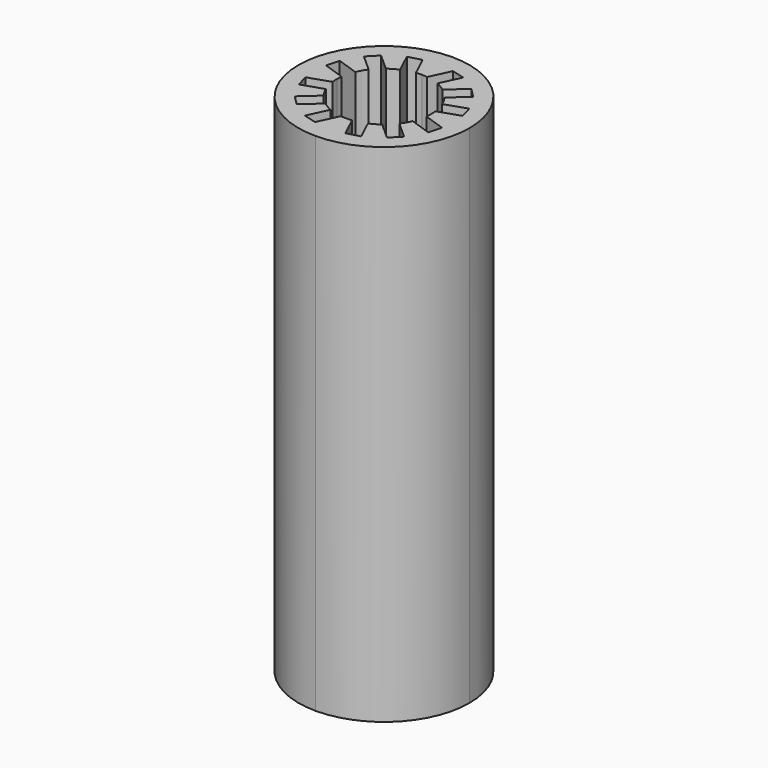
from build123d import *

# Parameters (mm, degrees)
PAD_DEPTH    = 45
PAD001_DEPTH = 45


with BuildPart() as mirrored:
    # Sketch → Pad (new body)
    with BuildSketch(Plane(origin=(0, 0, 0), x_dir=(0, 1, 0), z_dir=(0, 0, 1))):
        with BuildLine():
            ThreePointArc((0, 7.6), (-5.374012, 5.374012), (-7.6, 0))
            Line((-7.6, 0), (-4.2, 0))
            ThreePointArc((-4.170238, 0.499113), (-4.192553, 0.25), (-4.2, 0))
            Line((-5.982338, 1.345455), (-4.170238, 0.499113))
            Line((-5.670983, 2.504359), (-5.982338, 1.345455))
            Line((-3.858883, 1.658017), (-5.670983, 2.504359))
            ThreePointArc((-3.357546, 2.523269), (-3.634058, 2.105617), (-3.858883, 1.658017))
            Line((-4.690785, 4.014065), (-3.357546, 2.523269))
            Line((-3.840203, 4.860534), (-4.690785, 4.014065))
            Line((-2.506963, 3.369738), (-3.840203, 4.860534))
            ThreePointArc((-1.639291, 3.866875), (-2.087976, 3.644222), (-2.506963, 3.369738))
            Line((-2.281588, 5.760933), (-1.639291, 3.866875))
            Line((-1.14141, 6.064296), (-2.281588, 5.760933))
            Line((-0.499113, 4.170238), (-1.14141, 6.064296))
            ThreePointArc((0, 4.2), (-0.25, 4.192553), (-0.499113, 4.170238))
            Line((0, 4.2), (0, 7.6))
        make_face()
    pad = extrude(amount=PAD_DEPTH)

    # Mirrored: Pad across Sketch H_Axis
    add(pad.mirror(Plane.ZY))


with BuildPart() as fusion:
    # Sketch001 → Pad001 (new body)
    with BuildSketch(Plane(origin=(0, 0, 0), x_dir=(0, -1, 0), z_dir=(0, 0, 1))):
        with BuildLine():
            ThreePointArc((0, 7.6), (-5.374012, 5.374012), (-7.6, 0))
            Line((-7.6, 0), (-4.2, 0))
            ThreePointArc((-4.170238, 0.499113), (-4.192553, 0.25), (-4.2, 0))
            Line((-5.982338, 1.345455), (-4.170238, 0.499113))
            Line((-5.670983, 2.504359), (-5.982338, 1.345455))
            Line((-3.858883, 1.658017), (-5.670983, 2.504359))
            ThreePointArc((-3.357546, 2.523269), (-3.634058, 2.105617), (-3.858883, 1.658017))
            Line((-4.690785, 4.014065), (-3.357546, 2.523269))
            Line((-3.840203, 4.860534), (-4.690785, 4.014065))
            Line((-2.506963, 3.369738), (-3.840203, 4.860534))
            ThreePointArc((-1.639291, 3.866875), (-2.087976, 3.644222), (-2.506963, 3.369738))
            Line((-2.281588, 5.760933), (-1.639291, 3.866875))
            Line((-1.14141, 6.064296), (-2.281588, 5.760933))
            Line((-0.499113, 4.170238), (-1.14141, 6.064296))
            ThreePointArc((0, 4.2), (-0.25, 4.192553), (-0.499113, 4.170238))
            Line((0, 4.2), (0, 7.6))
        make_face()
    pad001 = extrude(amount=PAD001_DEPTH)

    # Mirrored001: Pad001 across Sketch001 H_Axis
    add(pad001.mirror(Plane(origin=(0, 0, 0), x_dir=(0, 0, 1), z_dir=(1, 0, 0))))

    # Fusion: union Mirrored
    add(mirrored.part)


solid = fusion.part
